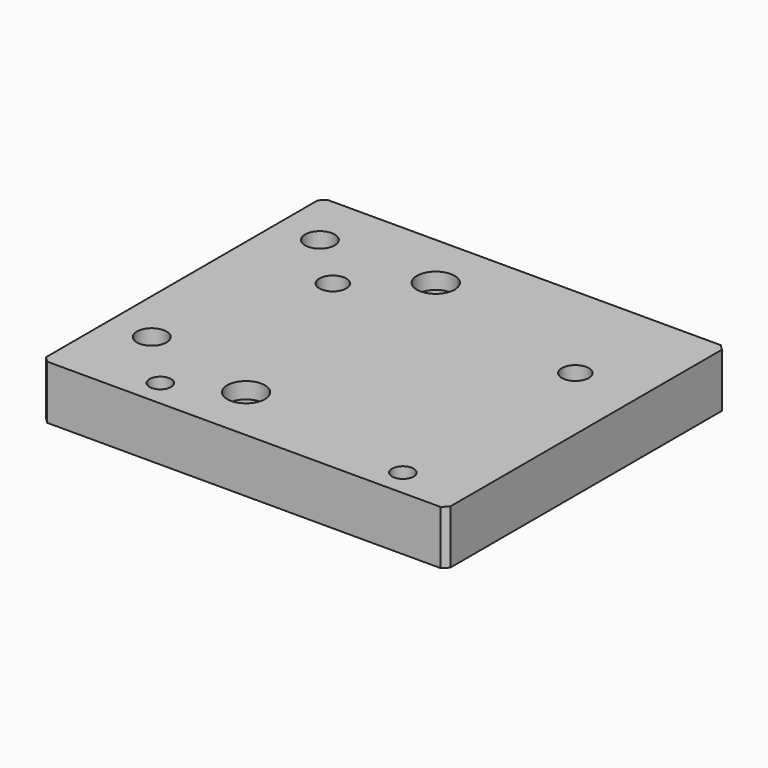
from build123d import *

# Parameters (mm, degrees)
F1_W      = 75
F1_H      = 65
F2_DEPTH  = 10
F3_R      = 5.5
F4_DEPTH  = 7
F5_R      = 4.75
F6_DEPTH  = 5.5
F7_R      = 3.5
F8_DEPTH  = 25
F9_R      = 2.75
F10_DEPTH = 25
F11_R     = 2
F11_R_2   = 2.5
F12_DEPTH = 25
F13_SIZE  = 1


with BuildPart() as f2:
    # F1 (on face) → F2 (new body)
    with BuildSketch(Plane.XY):
        Rectangle(F1_W, F1_H)
    extrude(amount=F2_DEPTH)

    # F3 (on face) → F4 (cut)
    with BuildSketch(Plane.XY):
        with Locations((-8, 22)):
            Circle(F3_R)
        with Locations((-8, -22)):
            Circle(F3_R)
    extrude(amount=F4_DEPTH, mode=Mode.SUBTRACT)

    # F5 (on face) → F6 (cut)
    with BuildSketch(Plane.XY):
        with Locations((-29.5, 22)):
            Circle(F5_R)
        with Locations((-29.5, -17)):
            Circle(F5_R)
    extrude(amount=F6_DEPTH, mode=Mode.SUBTRACT)

    # F7 (on face) → F8 (cut)
    with BuildSketch(Plane.XY):
        with Locations((-8, -22)):
            Circle(F7_R)
        with Locations((-8, 22)):
            Circle(F7_R)
    extrude(amount=F8_DEPTH, mode=Mode.SUBTRACT)

    # F9 (on face) → F10 (cut)
    with BuildSketch(Plane.XY):
        with Locations((-29.5, -17)):
            Circle(F9_R)
        with Locations((-29.5, 22)):
            Circle(F9_R)
    extrude(amount=F10_DEPTH, mode=Mode.SUBTRACT)

    # F11 (on face) → F12 (cut)
    with BuildSketch(Plane.XY):
        with Locations((-19.5, -27.5)):
            Circle(F11_R)
        with Locations((-19.5, 12.5)):
            Circle(F11_R_2)
        with Locations((25.5, -27.5)):
            Circle(F11_R)
        with Locations((25.5, 12.5)):
            Circle(F11_R_2)
    extrude(amount=F12_DEPTH, mode=Mode.SUBTRACT)

    # F13
    f13_edges = [f2.edges().sort_by_distance(p)[0] for p in [
        (-37.5, 32.5, 5),
        (-37.5, -32.5, 5),
        (37.5, -32.5, 5),
        (37.5, 32.5, 5),
    ]]
    chamfer(f13_edges, length=F13_SIZE)


solid = f2.part
